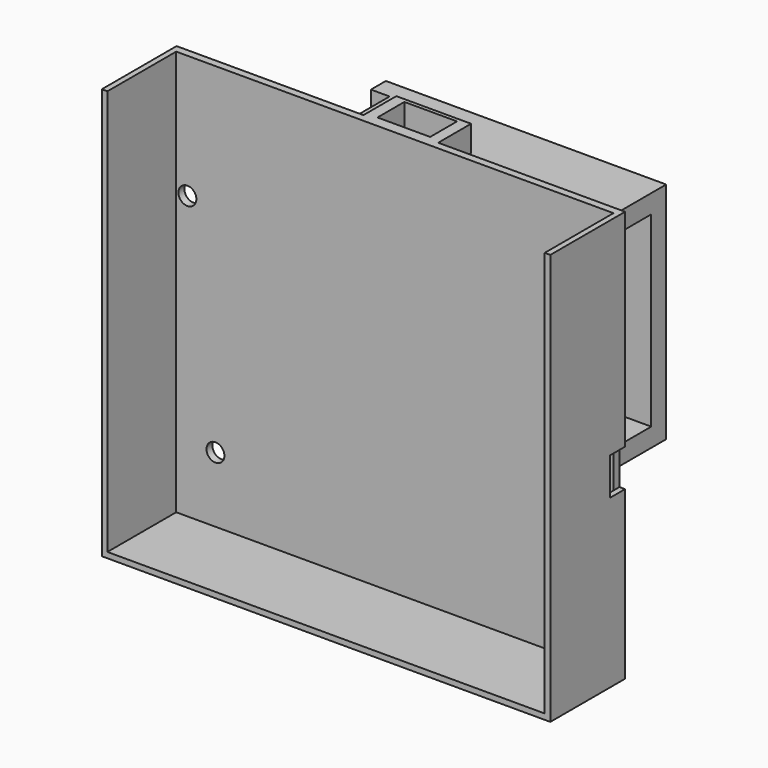
from build123d import *

# Parameters (mm, degrees)
SKETCH_W        = 120
SKETCH_H        = 110
PAD_DEPTH       = 2
SKETCH001_R     = 2.4
POCKET_DEPTH    = 5
SKETCH002_W     = 1.5
SKETCH002_H     = 110
SKETCH002_W_2   = 118.5
SKETCH002_H_2   = 1.5
SKETCH002_H_3   = 108.5
PAD001_DEPTH    = 23
SKETCH003_W     = 10
SKETCH003_H     = 5
POCKET001_DEPTH = 1.5
SKETCH004_W     = 70
SKETCH004_H     = 5
SKETCH004_W_2   = 5
SKETCH004_H_2   = 50
PAD002_DEPTH    = 40
SKETCH005_W     = 75
SKETCH005_H     = 60
PAD003_DEPTH    = 5
SKETCH006_W     = 20
SKETCH006_H     = 7
PAD004_DEPTH    = 11
SKETCH007_W     = 14.1
SKETCH007_H     = 9
POCKET002_DEPTH = 10


with BuildPart() as part:
    # Sketch → Pad (new body)
    with BuildSketch(Plane.XZ):
        with Locations((60, 55)):
            Rectangle(SKETCH_W, SKETCH_H)
    extrude(amount=PAD_DEPTH)

    # Sketch001 (on Face6 of Pad) → Pocket (cut)
    with BuildSketch(Plane.XZ.offset(2)):
        with Locations((12, 19)):
            Circle(SKETCH001_R)
        with Locations((4.5, 77)):
            Circle(SKETCH001_R)
    extrude(amount=-POCKET_DEPTH, mode=Mode.SUBTRACT)

    # Sketch002 (on Face5 of Pocket) → Pad001 (join)
    with BuildSketch(Plane.XZ.offset(2)):
        with Locations((0.75, 55)):
            Rectangle(SKETCH002_W, SKETCH002_H)
        with Locations((60.75, 0.75)):
            Rectangle(SKETCH002_W_2, SKETCH002_H_2)
        with Locations((119.25, 55.75)):
            Rectangle(SKETCH002_W, SKETCH002_H_3)
    extrude(amount=PAD001_DEPTH)

    # Sketch003 (on Face11 of Pad001) → Pocket001 (cut)
    with BuildSketch(Plane(origin=(120, 0, 0), x_dir=(0, 0, 1), z_dir=(1, 0, 0))):
        with Locations((49.672382, 2.5)):
            Rectangle(SKETCH003_W, SKETCH003_H)
    extrude(amount=-POCKET001_DEPTH, mode=Mode.SUBTRACT)

    # Sketch004 (on Face1 of Pocket001) → Pad002 (join)
    with BuildSketch(Plane(origin=(0, 0, 0), x_dir=(1, 0, 0), z_dir=(0, 1, 0))):
        with Locations((60, -32.5)):
            Rectangle(SKETCH004_W, SKETCH004_H)
        with Locations((22.5, -60)):
            Rectangle(SKETCH004_W_2, SKETCH004_H_2)
        with Locations((60, -87.5)):
            Rectangle(SKETCH004_W, SKETCH004_H)
    extrude(amount=PAD002_DEPTH)

    # Sketch005 (on Face30 of Pad002) → Pad003 (join)
    with BuildSketch(Plane(origin=(0, 40, 0), x_dir=(1, 0, 0), z_dir=(0, 1, 0))):
        with Locations((57.5, -60)):
            Rectangle(SKETCH005_W, SKETCH005_H)
    extrude(amount=PAD003_DEPTH)

    # Sketch006 (on Face1 of Pad003) → Pad004 (join)
    with BuildSketch(Plane(origin=(0, 0, 0), x_dir=(1, 0, 0), z_dir=(0, 1, 0))):
        with Locations((60, -106.5)):
            Rectangle(SKETCH006_W, SKETCH006_H)
    extrude(amount=PAD004_DEPTH)

    # Sketch007 (on Face35 of Pad004) → Pocket002 (cut)
    with BuildSketch(Plane(origin=(0, 0, 110), x_dir=(-1, 0, 0), z_dir=(0, 0, 1))):
        with Locations((-60, -5.5)):
            Rectangle(SKETCH007_W, SKETCH007_H)
    extrude(amount=-POCKET002_DEPTH, mode=Mode.SUBTRACT)


solid = part.part
